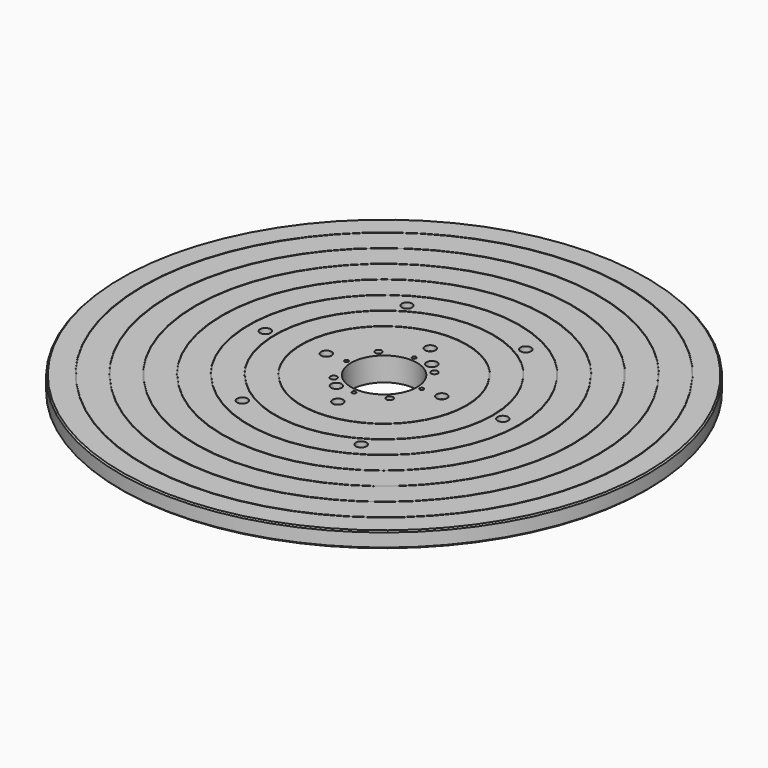
from build123d import *

# Parameters (mm, degrees)
F0_R      = 200
F1_DEPTH  = 12
F2_SIZE   = 1
F3_R      = 39
F4_DEPTH  = 6
F5_R      = 25
F6_DEPTH  = 25
F7_SIZE   = 1
F8_R      = 182.75
F8_R_2    = 182.25
F8_R_3    = 162.75
F8_R_4    = 162.25
F8_R_5    = 142.75
F8_R_6    = 142.25
F8_R_7    = 122.75
F8_R_8    = 122.25
F8_R_9    = 102.75
F8_R_10   = 102.25
F8_R_11   = 82.75
F8_R_12   = 82.25
F8_R_13   = 62.75
F8_R_14   = 62.25
F9_DEPTH  = 0.5
F10_R     = 4
F11_DEPTH = 25
F12_R     = 2.1
F13_DEPTH = 25
F12_R_2   = 4
F14_DEPTH = 4
F12_R_3   = 2.5
F15_DEPTH = 10
F12_R_4   = 1.5
F16_DEPTH = 6
F17_DEPTH = 25


with BuildPart() as f1:
    # F0 (on Top) → F1 (new body)
    with BuildSketch(Plane.XY):
        Circle(F0_R)
    extrude(amount=-F1_DEPTH)

    # F2
    f2_edges = [f1.edges().sort_by_distance(p)[0] for p in [
        (-200, 0, -12),
        (-200, 0, 0),
    ]]
    chamfer(f2_edges, length=F2_SIZE)

    # F3 (on face) → F4 (join)
    with BuildSketch(Plane(origin=(0, 0, -12), x_dir=(1, 0, 0), z_dir=(0, 0, -1))):
        Circle(F3_R)
    extrude(amount=F4_DEPTH)

    # F5 (on face) → F6 (cut)
    with BuildSketch(Plane.XY):
        Circle(F5_R)
    extrude(amount=-F6_DEPTH, mode=Mode.SUBTRACT)

    # F7
    f7_edges = [f1.edges().sort_by_distance(p)[0] for p in [
        (-39, 0, -18),
    ]]
    chamfer(f7_edges, length=F7_SIZE)

    # F8 (on face) → F9 (cut)
    with BuildSketch(Plane.XY):
        Circle(F8_R)
        Circle(F8_R_2, mode=Mode.SUBTRACT)
        Circle(F8_R_3)
        Circle(F8_R_4, mode=Mode.SUBTRACT)
        Circle(F8_R_5)
        Circle(F8_R_6, mode=Mode.SUBTRACT)
        Circle(F8_R_7)
        Circle(F8_R_8, mode=Mode.SUBTRACT)
        Circle(F8_R_9)
        Circle(F8_R_10, mode=Mode.SUBTRACT)
        Circle(F8_R_11)
        Circle(F8_R_12, mode=Mode.SUBTRACT)
        Circle(F8_R_13)
        Circle(F8_R_14, mode=Mode.SUBTRACT)
    extrude(amount=-F9_DEPTH, mode=Mode.SUBTRACT)

    # F10 (on face) → F11 (cut)
    with BuildSketch(Plane.XY):
        with Locations((90, 0)):
            Circle(F10_R)
        with Locations((45, 77.9422863406)):
            Circle(F10_R)
        with Locations((-45, 77.9422863406)):
            Circle(F10_R)
        with Locations((-90, 0)):
            Circle(F10_R)
        with Locations((-45, -77.9422863406)):
            Circle(F10_R)
        with Locations((45, -77.9422863406)):
            Circle(F10_R)
    extrude(amount=-F11_DEPTH, mode=Mode.SUBTRACT)

    # F12 (on face) → F13 (cut)
    with BuildSketch(Plane.XY):
        with Locations((-43.75, 0)):
            Circle(F12_R)
        with Locations((0, 43.75)):
            Circle(F12_R)
        with Locations((43.75, 0)):
            Circle(F12_R)
        with Locations((0, -43.75)):
            Circle(F12_R)
    extrude(amount=-F13_DEPTH, mode=Mode.SUBTRACT)

    # F12 (on face) → F14 (cut)
    with BuildSketch(Plane.XY):
        with Locations((-43.75, 0)):
            Circle(F12_R_2)
        with Locations((-43.75, 0)):
            Circle(F12_R, mode=Mode.SUBTRACT)
        with Locations((0, -43.75)):
            Circle(F12_R_2)
        with Locations((0, -43.75)):
            Circle(F12_R, mode=Mode.SUBTRACT)
        with Locations((43.75, 0)):
            Circle(F12_R_2)
        with Locations((43.75, 0)):
            Circle(F12_R, mode=Mode.SUBTRACT)
        with Locations((0, 43.75)):
            Circle(F12_R_2)
        with Locations((0, 43.75)):
            Circle(F12_R, mode=Mode.SUBTRACT)
    extrude(amount=-F14_DEPTH, mode=Mode.SUBTRACT)

    # F12 (on face) → F15 (cut)
    with BuildSketch(Plane.XY):
        with Locations((-21.2132034356, 21.2132034356)):
            Circle(F12_R_3)
        with Locations((21.2132034356, 21.2132034356)):
            Circle(F12_R_3)
        with Locations((-21.2132034356, -21.2132034356)):
            Circle(F12_R_3)
        with Locations((21.2132034356, -21.2132034356)):
            Circle(F12_R_3)
    extrude(amount=-F15_DEPTH, mode=Mode.SUBTRACT)

    # F12 (on face) → F16 (cut)
    with BuildSketch(Plane.XY):
        with Locations((0, -28.5)):
            Circle(F12_R_4)
        with Locations((28.5, 0)):
            Circle(F12_R_4)
        with Locations((-28.5, 0)):
            Circle(F12_R_4)
        with Locations((0, 28.5)):
            Circle(F12_R_4)
    extrude(amount=-F16_DEPTH, mode=Mode.SUBTRACT)

    # F12 (on face) → F17 (cut)
    with BuildSketch(Plane.XY):
        with Locations((13.3124752448, 28.5486952917)):
            Circle(F12_R_2)
        with Locations((-13.3124752448, -28.5486952917)):
            Circle(F12_R_2)
    extrude(amount=-F17_DEPTH, mode=Mode.SUBTRACT)


solid = f1.part
